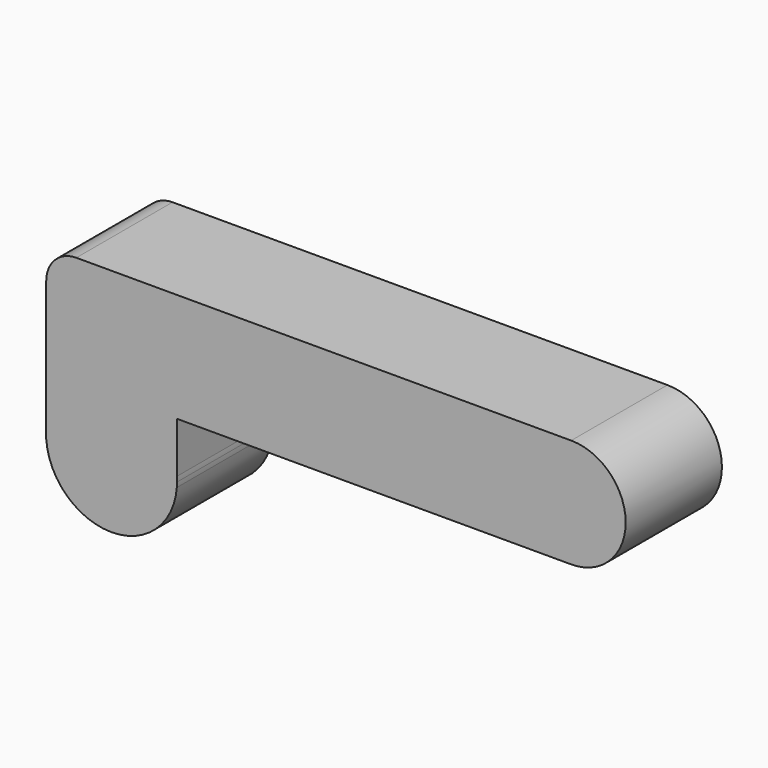
from build123d import *

# Parameters (mm, degrees)
F1_DEPTH = 25.4


with BuildPart() as f1:
    # F0 (on Front) → F1 (new body)
    with BuildSketch(Plane.XZ):
        with BuildLine():
            Line((51.587263, 31.404579), (-52.911402, 31.404579))
            ThreePointArc((-52.911402, 31.404579), (-57.40153, 29.544707), (-59.261402, 25.054579))
            Line((-59.261402, 25.054579), (-59.261402, -2.341939))
            ThreePointArc((-59.261402, -2.341939), (-45.476377, 10.448292), (-31.691352, -2.341939))
            Line((-31.691352, -2.341939), (-31.691352, 8.381331))
            Line((-31.691352, 8.381331), (51.587263, 8.381331))
            Line((51.587263, 8.381331), (51.587263, 31.404579))
        make_face()
        with BuildLine():
            ThreePointArc((51.587263, 8.381331), (63.098887, 19.892955), (51.587263, 31.404579))
            Line((51.587263, 31.404579), (51.587263, 8.381331))
        make_face()
        with BuildLine():
            ThreePointArc((-31.691352, -2.341939), (-45.476377, 10.448292), (-59.261402, -2.341939))
            Line((-59.261402, -2.341939), (-59.261402, -4.4089))
            ThreePointArc((-59.261402, -4.4089), (-45.476377, -17.199131), (-31.691352, -4.4089))
            Line((-31.691352, -4.4089), (-31.691352, -2.341939))
        make_face()
        with BuildLine():
            Line((-59.261402, -4.4089), (-59.261402, -2.341939))
            ThreePointArc((-59.261402, -2.341939), (-59.300088, -3.375419), (-59.261402, -4.4089))
        make_face()
        with BuildLine():
            ThreePointArc((-31.652666, -3.375419), (-31.662341, -2.858317), (-31.691352, -2.341939))
            Line((-31.691352, -2.341939), (-31.691352, -4.4089))
            ThreePointArc((-31.691352, -4.4089), (-31.662341, -3.892522), (-31.652666, -3.375419))
        make_face()
    extrude(amount=F1_DEPTH)


solid = f1.part
